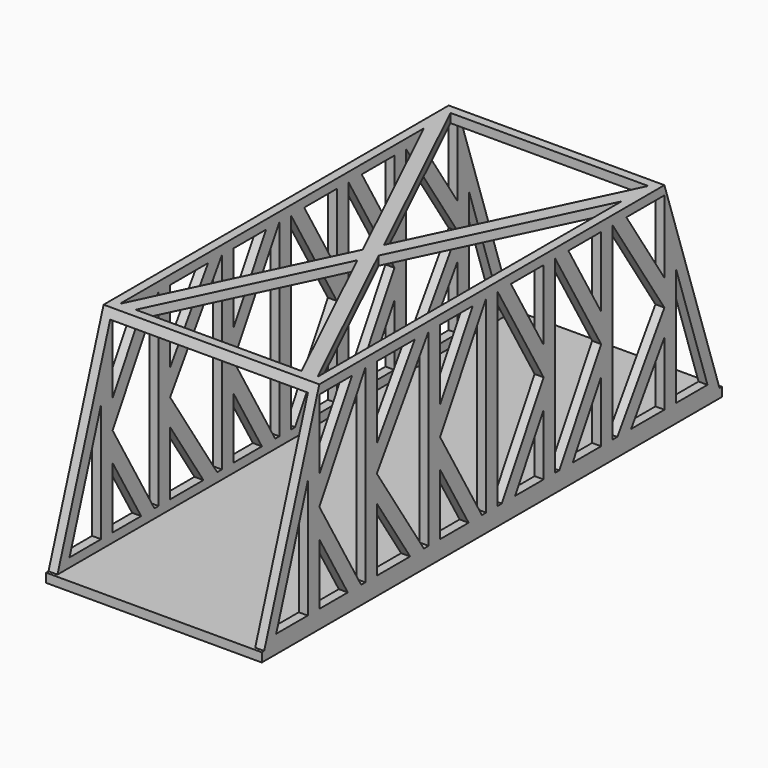
from build123d import *

# Parameters (mm, degrees)
F1_DEPTH  = 38.1
F2_W      = 69.85
F2_H      = 69.85
F3_DEPTH  = 127
F5_DEPTH  = 76.2
F6_W      = 5.3111530662
F6_H      = 3.175
F7_DEPTH  = 76.2
F9_DEPTH  = 3.175
F10_W     = 3.175
F10_H     = 192.5776938676
F11_DEPTH = 3.175


with BuildPart() as f1:
    # F0 (on Right) → F1 (new body, symmetric)
    with BuildSketch(Plane.YZ):
        Polygon((-76.2, 38.1), (-101.6, -38.1), (101.6, -38.1), (76.2, 38.1), align=None)
    extrude(amount=F1_DEPTH, both=True)

    # F2 (on Front) → F3 (cut, symmetric)
    with BuildSketch(Plane.XZ):
        Rectangle(F2_W, F2_H)
    extrude(amount=F3_DEPTH, both=True, mode=Mode.SUBTRACT)

    # F4 (on face) → F5 (cut)
    with BuildSketch(Plane.YZ.offset(38.1)):
        Polygon((-96.2888469338, -34.925), (-81.28, -34.925), (-81.28, 10.1015408014), align=None)
        Polygon((-76.2, 10.1015408014), (-61.7572601026, 34.925), (-76.2, 34.925), align=None)
        Polygon((-76.2, 0), (-55.88, -34.925), (-55.88, 34.925), align=None)
        Polygon((-76.2, -34.925), (-61.7572601026, -34.925), (-76.2, -10.1015408014), align=None)
        Polygon((-50.8, 9.2758420469), (-34.0114602489, 34.925), (-50.8, 34.925), align=None)
        Polygon((-50.8, 0), (-27.94, -34.925), (-27.94, 34.925), align=None)
        Polygon((-50.8, -34.925), (-34.0114602489, -34.925), (-50.8, -9.2758420469), align=None)
        Polygon((-22.86, 10.1015408014), (-8.4172601026, 34.925), (-22.86, 34.925), align=None)
        Polygon((-22.86, 0), (-2.54, -34.925), (-2.54, 34.925), align=None)
        Polygon((-22.86, -34.925), (-8.4172601026, -34.925), (-22.86, -10.1015408014), align=None)
        Polygon((2.54, 34.925), (2.54, -34.925), (22.86, 0), align=None)
        Polygon((22.86, 10.1015408014), (22.86, 34.925), (8.4172601026, 34.925), align=None)
        Polygon((27.94, 34.925), (27.94, -34.925), (48.26, 0), align=None)
        Polygon((8.4172601026, -34.925), (22.86, -34.925), (22.86, -10.1015408014), align=None)
        Polygon((48.26, 10.1015408014), (48.26, 34.925), (33.8172601026, 34.925), align=None)
        Polygon((33.8172601026, -34.925), (48.26, -34.925), (48.26, -10.1015408014), align=None)
        Polygon((53.34, 34.925), (53.34, -34.925), (76.2, 0), align=None)
        Polygon((59.4114602489, 34.925), (76.2, 9.2758420469), (76.2, 34.925), align=None)
        Polygon((59.4114602489, -34.925), (76.2, -34.925), (76.2, -9.2758420469), align=None)
        Polygon((81.28, 10.1015408014), (81.28, -34.925), (96.2888469338, -34.925), align=None)
    extrude(amount=-F5_DEPTH, mode=Mode.SUBTRACT)

    # F6 (on face) → F7 (join)
    with BuildSketch(Plane.YZ.offset(38.1)):
        with Locations((-98.9444234669, -36.5125)):
            Rectangle(F6_W, F6_H)
        with Locations((98.9444234669, -36.5125)):
            Rectangle(F6_W, F6_H)
    extrude(amount=-F7_DEPTH)

    # F8 (on face) → F9 (cut)
    with BuildSketch(Plane.XY.offset(38.1)):
        Polygon((-34.925, 61.2509003959), (-34.925, -73.025), (-2.8155455575, -5.8870498021), align=None)
        Polygon((0, 0), (34.925, 73.025), (-34.925, 73.025), align=None)
        Polygon((2.8155455575, -5.8870498021), (34.925, -73.025), (34.925, 61.2509003959), align=None)
        Polygon((-29.293908885, -73.025), (29.293908885, -73.025), (0, -11.7740996041), align=None)
    extrude(amount=-F9_DEPTH, mode=Mode.SUBTRACT)

    # F10 (on face) → F11 (join)
    with BuildSketch(Plane.XY.offset(-34.925)):
        with Locations((36.5125, 0)):
            Rectangle(F10_W, F10_H)
        with Locations((-36.5125, 0)):
            Rectangle(F10_W, F10_H)
    extrude(amount=F11_DEPTH)


solid = f1.part
